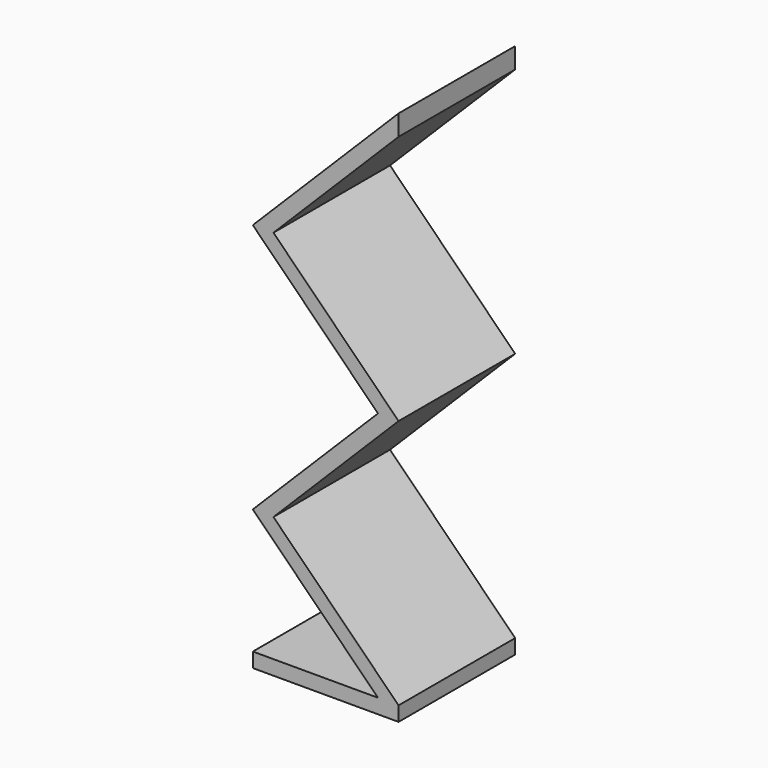
from build123d import *

# Parameters (mm, degrees)
F1_DEPTH = 10


with BuildPart() as f1:
    # F0 (on Front) → F1 (new body, symmetric)
    with BuildSketch(Plane.XZ):
        Polygon((7.171573, 2), (-10, 2), (-10, 0), (10, 0), (10, 2), (-7.171573, 19.171573), (10, 36.343146), (-7.171573, 53.514719), (10, 70.686292), (10, 73.514719), (-10, 53.514719), (7.171573, 36.343146), (-10, 19.171573), align=None)
    extrude(amount=F1_DEPTH, both=True)


solid = f1.part
